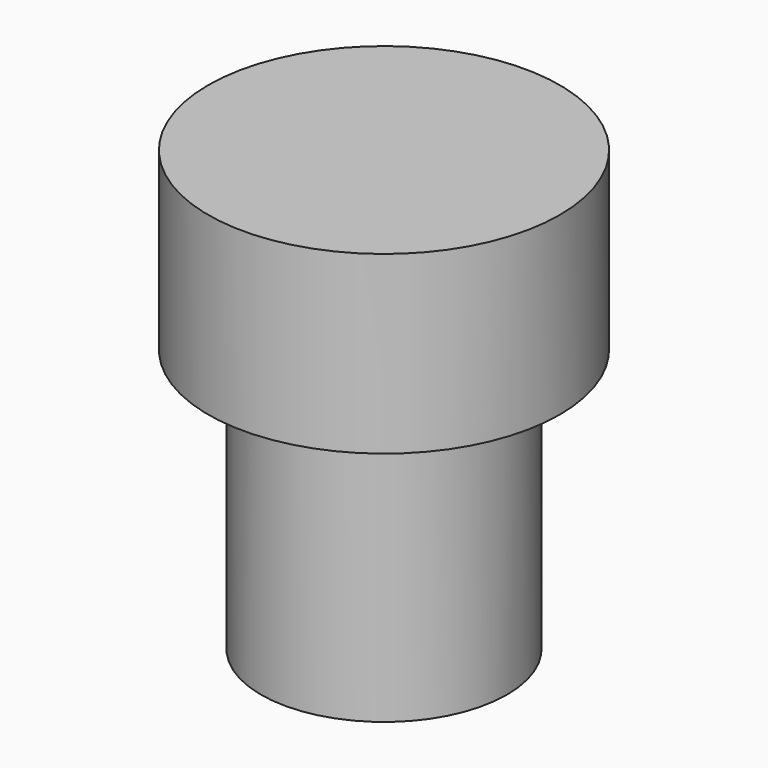
from build123d import *

# Parameters (mm, degrees)
F0_R     = 3.5
F0_R_2   = 2.45
F1_DEPTH = 7.5
F2_R     = 5
F3_DEPTH = 5
F4_R     = 2.45
F5_DEPTH = 2.5


with BuildPart() as f1:
    # F0 (on Top) → F1 (new body)
    with BuildSketch(Plane.XY):
        Circle(F0_R)
        Circle(F0_R_2, mode=Mode.SUBTRACT)
    extrude(amount=F1_DEPTH)

    # F2 (on face) → F3 (join)
    with BuildSketch(Plane.XY.offset(7.5)):
        Circle(F2_R)
    extrude(amount=F3_DEPTH)

    # F4 (on face) → F5 (cut)
    with BuildSketch(Plane(origin=(0, 0, 7.5), x_dir=(1, 0, 0), z_dir=(0, 0, -1))):
        Circle(F4_R)
    extrude(amount=-F5_DEPTH, mode=Mode.SUBTRACT)


solid = f1.part
